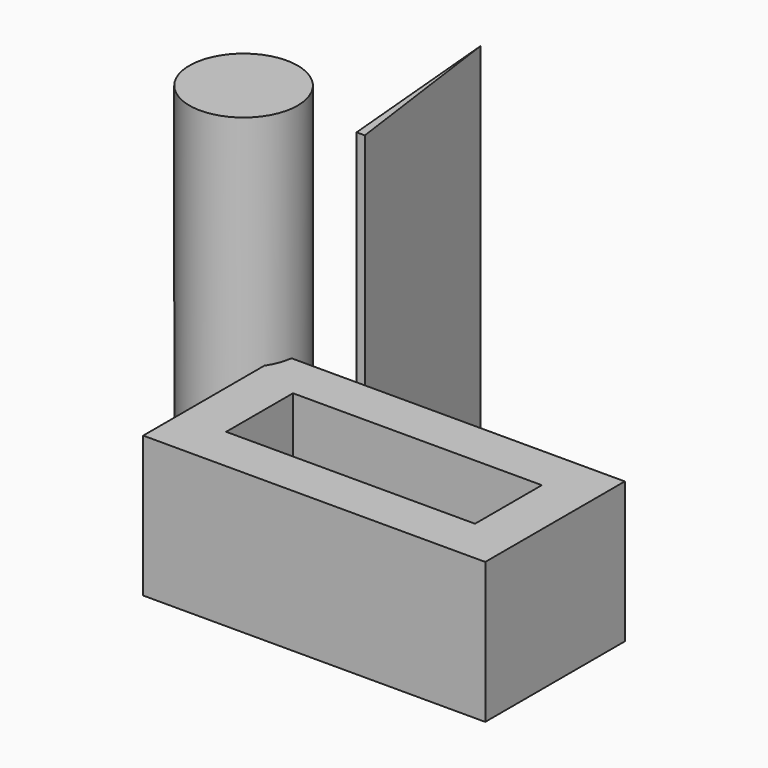
from build123d import *

# Parameters (mm, degrees)
F0_W     = 246.744648
F0_H     = 125.825778
F0_W_2   = 179.530456
F0_H_2   = 60.253986
F1_DEPTH = 101.6
F3_R     = 39.055368
F3_R_2   = 15.617245
F4_DEPTH = 260.096


with BuildPart() as f1:
    # F0 (on Top) → F1 (new body)
    with BuildSketch(Plane.XY):
        Rectangle(F0_W, F0_H)
        Rectangle(F0_W_2, F0_H_2, mode=Mode.SUBTRACT)
    extrude(amount=F1_DEPTH)

    # F3 (on Top) + F2 (on Top) → F4 (join)
    with BuildSketch(Plane.XY):
        with Locations((-155.776352, 68.096891)):
            Circle(F3_R)
        with Locations((-155.776352, 68.096891)):
            Circle(F3_R_2, mode=Mode.SUBTRACT)
        with Locations((-155.776352, 68.096891)):
            Circle(F3_R_2)
    with BuildSketch(Plane.XY):
        Polygon((-81.653555, 189.060374), (-70.428785, 63.350744), (-64.467981, 63.302405), align=None)
    extrude(amount=F4_DEPTH)


solid = f1.part
